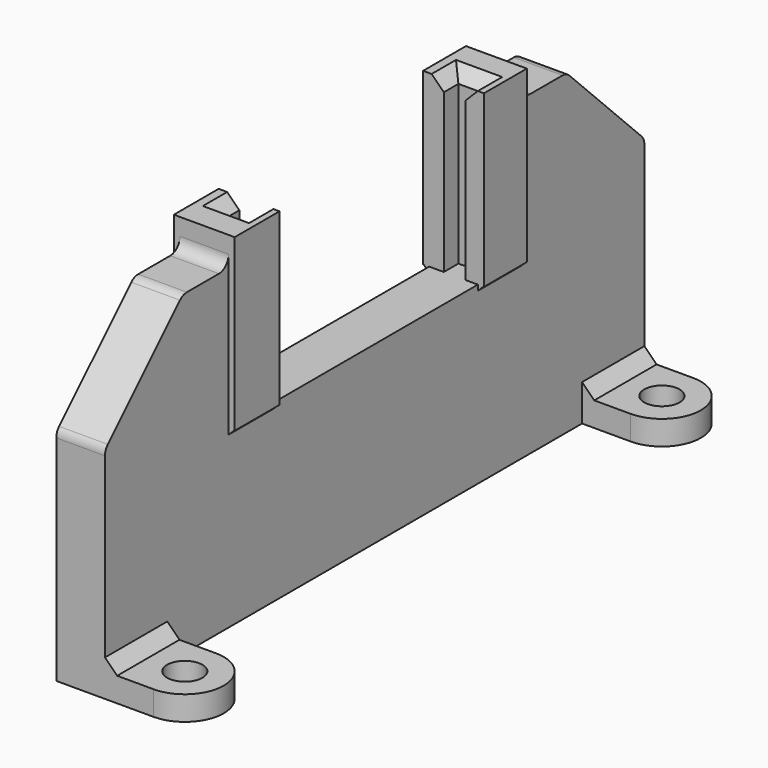
from build123d import *

# Parameters (mm, degrees)
BOX088_W           = 25
BOX088_H           = 24
BOX088_DEPTH       = 1.8
BOX088_PITCH_ANGLE = -90
BOX089_W           = 25
BOX089_H           = 21
BOX089_DEPTH       = 10
BOX089_PITCH_ANGLE = -90
CYLINDER297_R      = 1.45
CYLINDER297_DEPTH  = 2
BOX085_W           = 8
BOX085_H           = 6.4
BOX085_DEPTH       = 2
CYLINDER298_R      = 3.2
CYLINDER298_DEPTH  = 2
BOX086_W           = 4
BOX086_H           = 55.4
BOX086_DEPTH       = 26
CYLINDER295_R      = 1.45
CYLINDER295_DEPTH  = 2
BOX084_W           = 8
BOX084_H           = 6.4
BOX084_DEPTH       = 2
CYLINDER296_R      = 3.2
CYLINDER296_DEPTH  = 2
CHAMFER_SIZE       = 1
BOX087_W           = 14
BOX087_H           = 30
BOX087_DEPTH       = 5
BOX087_PITCH_ANGLE = -90
CHAMFER001_SIZE    = 8
FILLET_R           = 1
FILLET001_R        = 1
CHAMFER002_SIZE    = 1
CHAMFER003_SIZE    = 1
CHAMFER004_SIZE    = 0.45


with BuildPart() as cubo088:
    # Box088 → Box088 (new body)
    with BuildSketch(Plane.XY):
        with Locations((12.5, 12)):
            Rectangle(BOX088_W, BOX088_H)
    extrude(amount=BOX088_DEPTH)


with BuildPart() as cubo088_1:
    # Box088 pitch: moved
    add(cubo088.part.rotate(Axis((0, 0, 0), (0, 1, 0)), BOX088_PITCH_ANGLE))


with BuildPart() as cubo088_2:
    # Box088 placement: moved
    add(cubo088_1.part.moved(Location((-44, -10.2, 76))))


with BuildPart() as fusion128:
    # Box089 → Box089 (new body)
    with BuildSketch(Plane.XY):
        with Locations((12.5, 10.5)):
            Rectangle(BOX089_W, BOX089_H)
    extrude(amount=BOX089_DEPTH)


with BuildPart() as fusion128_1:
    # Box089 pitch: moved
    add(fusion128.part.rotate(Axis((0, 0, 0), (0, 1, 0)), BOX089_PITCH_ANGLE))


with BuildPart() as fusion128_2:
    # Box089 placement: moved
    add(fusion128_1.part.moved(Location((-41, -8.7, 76))))

    # Fusion128: union Cubo088
    add(cubo088_2.part)


with BuildPart() as fusion128_3:
    # Fusion128 placement: moved
    add(fusion128_2.part.moved(Location((-0.5, -0.7, 0))))


with BuildPart() as cilindro297:
    # Cylinder297 → Cylinder297 (new body)
    with BuildSketch(Plane.XY):
        Circle(CYLINDER297_R)
    extrude(amount=CYLINDER297_DEPTH)


with BuildPart() as cubo085:
    # Box085 → Box085 (new body)
    with BuildSketch(Plane(origin=(-8, -3.2, 0), x_dir=(1, 0, 0), z_dir=(0, 0, 1))):
        with Locations((4, 3.2)):
            Rectangle(BOX085_W, BOX085_H)
    extrude(amount=BOX085_DEPTH)


with BuildPart() as cut009:
    # Cylinder298 → Cylinder298 (new body)
    with BuildSketch(Plane.XY):
        Circle(CYLINDER298_R)
    extrude(amount=CYLINDER298_DEPTH)

    # Fusion126: union Cubo085
    add(cubo085.part)

    # Cut009: cut Cilindro297
    add(cilindro297.part, mode=Mode.SUBTRACT)


with BuildPart() as cut009_1:
    # Cut009 placement: moved
    add(cut009.part.moved(Location((-39.5, 25.5, 61.6))))


with BuildPart() as cubo086:
    # Box086 → Box086 (new body)
    with BuildSketch(Plane(origin=(-47.5, -26.7, 61.6), x_dir=(1, 0, 0), z_dir=(0, 0, 1))):
        with Locations((2, 27.7)):
            Rectangle(BOX086_W, BOX086_H)
    extrude(amount=BOX086_DEPTH)


with BuildPart() as cilindro295:
    # Cylinder295 → Cylinder295 (new body)
    with BuildSketch(Plane.XY):
        Circle(CYLINDER295_R)
    extrude(amount=CYLINDER295_DEPTH)


with BuildPart() as cubo084:
    # Box084 → Box084 (new body)
    with BuildSketch(Plane(origin=(-8, -3.2, 0), x_dir=(1, 0, 0), z_dir=(0, 0, 1))):
        with Locations((4, 3.2)):
            Rectangle(BOX084_W, BOX084_H)
    extrude(amount=BOX084_DEPTH)


with BuildPart() as chamfer_body:
    # Cylinder296 → Cylinder296 (new body)
    with BuildSketch(Plane.XY):
        Circle(CYLINDER296_R)
    extrude(amount=CYLINDER296_DEPTH)

    # Fusion125: union Cubo084
    add(cubo084.part)

    # Cut008: cut Cilindro295
    add(cilindro295.part, mode=Mode.SUBTRACT)


with BuildPart() as chamfer_body_1:
    # Cut008 placement: moved
    add(chamfer_body.part.moved(Location((-39.5, -23.5, 61.6))))

    # Fusion127: union Cut009, Cubo086
    add(cut009_1.part)
    add(cubo086.part)

    # Chamfer
    chamfer_edges = [chamfer_body_1.edges().sort_by_distance(p)[0] for p in [
        (-43.5, 25.5, 63.6),
        (-43.5, -23.5, 63.6),
    ]]
    chamfer(chamfer_edges, length=CHAMFER_SIZE)


with BuildPart() as chamfer004:
    # Box087 → Box087 (new body)
    with BuildSketch(Plane.XY):
        with Locations((7, 15)):
            Rectangle(BOX087_W, BOX087_H)
    extrude(amount=BOX087_DEPTH)


with BuildPart() as chamfer004_1:
    # Box087 pitch: moved
    add(chamfer004.part.rotate(Axis((0, 0, 0), (0, 1, 0)), BOX087_PITCH_ANGLE))


with BuildPart() as chamfer004_2:
    # Box087 placement: moved
    add(chamfer004_1.part.moved(Location((-43, -14, 76))))

    # Fusion129: union Chamfer body
    add(chamfer_body_1.part)

    # Cut010: cut Fusion128
    add(fusion128_3.part, mode=Mode.SUBTRACT)

    # Chamfer001
    chamfer001_edges = [chamfer004_2.edges().sort_by_distance(p)[0] for p in [
        (-45.5, -26.7, 87.6),
        (-45.5, 28.7, 87.6),
    ]]
    chamfer(chamfer001_edges, length=CHAMFER001_SIZE)

    # Fillet
    fillet_edges = [chamfer004_2.edges().sort_by_distance(p)[0] for p in [
        (-45.5, -26.7, 79.6),
        (-45.5, -18.7, 87.6),
        (-45.5, 20.7, 87.6),
        (-45.5, 28.7, 79.6),
    ]]
    fillet(fillet_edges, radius=FILLET_R)

    # Fillet001
    fillet001_edges = [chamfer004_2.edges().sort_by_distance(p)[0] for p in [
        (-45.5, -14, 87.6),
        (-45.5, 16, 87.6),
    ]]
    fillet(fillet001_edges, radius=FILLET001_R)

    # Chamfer002
    chamfer002_edges = [chamfer004_2.edges().sort_by_distance(p)[0] for p in [
        (-45.4, -10.9, 90),
        (-45.4, 13.1, 90),
    ]]
    chamfer(chamfer002_edges, length=CHAMFER002_SIZE)

    # Chamfer003
    chamfer003_edges = [chamfer004_2.edges().sort_by_distance(p)[0] for p in [
        (-44.5, -10.15, 90),
        (-46.3, -10.15, 90),
        (-44.5, 12.35, 90),
        (-46.3, 12.35, 90),
    ]]
    chamfer(chamfer003_edges, length=CHAMFER003_SIZE)

    # Chamfer004
    chamfer004_edges = [chamfer004_2.edges().sort_by_distance(p)[0] for p in [
        (-43.5, -11.7, 76),
        (-47.5, -11.7, 76),
        (-47.5, 13.8, 76),
        (-43.5, 13.8, 76),
    ]]
    chamfer(chamfer004_edges, length=CHAMFER004_SIZE)


solid = chamfer004_2.part
